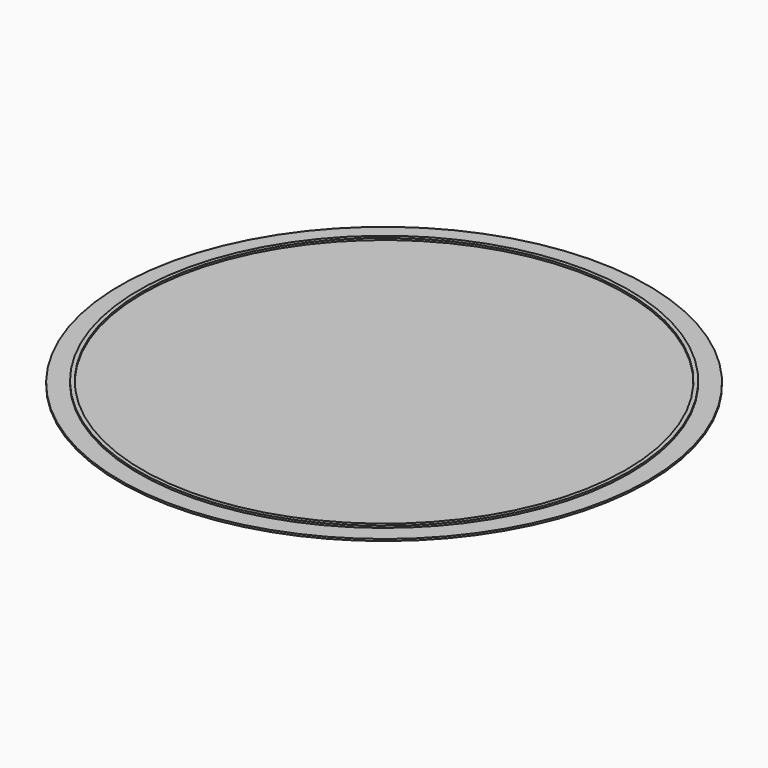
from build123d import *

# Parameters (mm, degrees)
F0_R     = 79
F0_R_2   = 77.8
F1_DEPTH = 0.6
F0_R_3   = 85
F2_DEPTH = 0.6


with BuildPart() as f1:
    # F0 (on Top) → F1 (new body)
    with BuildSketch(Plane.XY):
        Circle(F0_R)
        Circle(F0_R_2, mode=Mode.SUBTRACT)
    extrude(amount=F1_DEPTH)

    # F0 (on Top) → F2 (join)
    with BuildSketch(Plane.XY):
        Circle(F0_R_3)
        Circle(F0_R, mode=Mode.SUBTRACT)
        Circle(F0_R)
        Circle(F0_R_2, mode=Mode.SUBTRACT)
        Circle(F0_R_2)
    extrude(amount=-F2_DEPTH)


solid = f1.part
